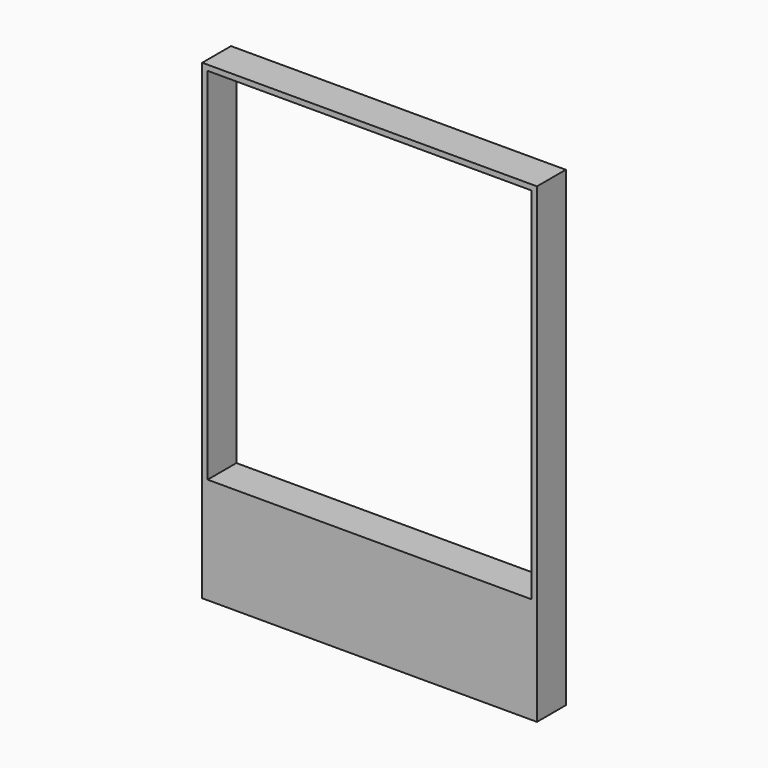
from build123d import *

# Parameters (mm, degrees)
F0_W     = 1860
F0_H     = 2060
F0_W_2   = 1800
F0_H_2   = 2000
F0_H_3   = 560
F1_DEPTH = 200


with BuildPart() as f1:
    # F0 (on Front) → F1 (new body)
    with BuildSketch(Plane.XZ):
        Rectangle(F0_W, F0_H)
        Rectangle(F0_W_2, F0_H_2, mode=Mode.SUBTRACT)
        with Locations((0, -1310)):
            Rectangle(F0_W, F0_H_3)
    extrude(amount=F1_DEPTH)


solid = f1.part
